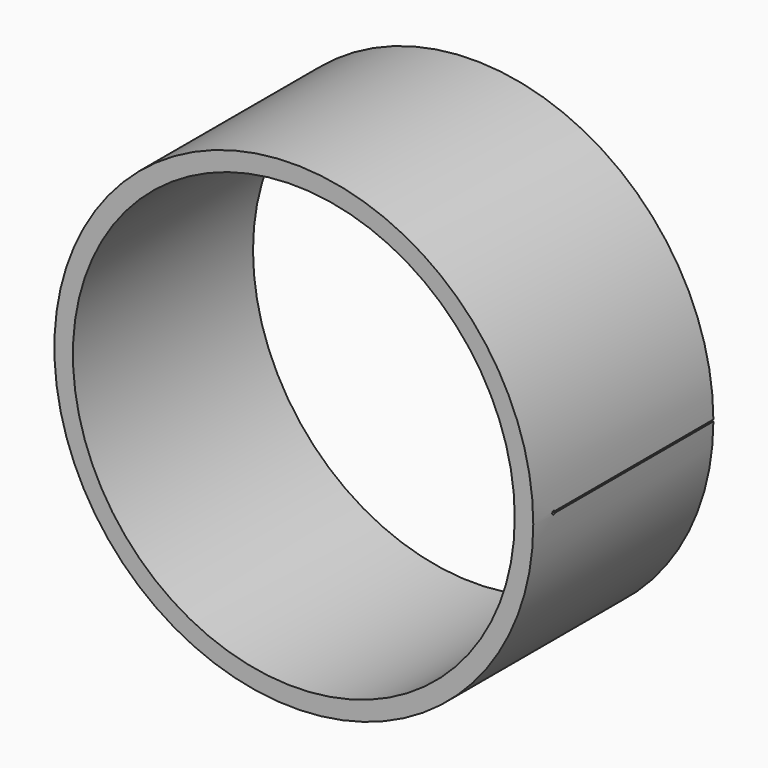
from build123d import *

# Parameters (mm, degrees)
F0_R     = 8.5625
F0_R_2   = 7.9
F1_DEPTH = 8.05
F3_DEPTH = 25
F5_SCALE = 25.4


with BuildPart() as f1:
    # F0 (on Front) → F1 (new body)
    with BuildSketch(Plane.XZ):
        Circle(F0_R)
        Circle(F0_R_2, mode=Mode.SUBTRACT)
    extrude(amount=F1_DEPTH)

    # F2 (on Right) → F3 (cut)
    with BuildSketch(Plane.YZ):
        with BuildLine():
            Line((0.064567852, 0.03), (0, 0.03))
            Line((0, 0.03), (-7.0868510798, 0.03))
            ThreePointArc((-7.0868510798, 0.03), (-7.204668453, 0), (-7.0868510798, -0.03))
            Line((-7.0868510798, -0.03), (0, -0.03))
            Line((0, -0.03), (0.064567852, -0.0370406015))
            Line((0.064567852, -0.0370406015), (0.064567852, 0.03))
        make_face()
    extrude(amount=F3_DEPTH, mode=Mode.SUBTRACT)


with BuildPart() as f1_1:
    # F5: moved
    add(f1.part.scale(F5_SCALE).moved(Location((5.408359057, 0, 0))))


solid = f1_1.part
